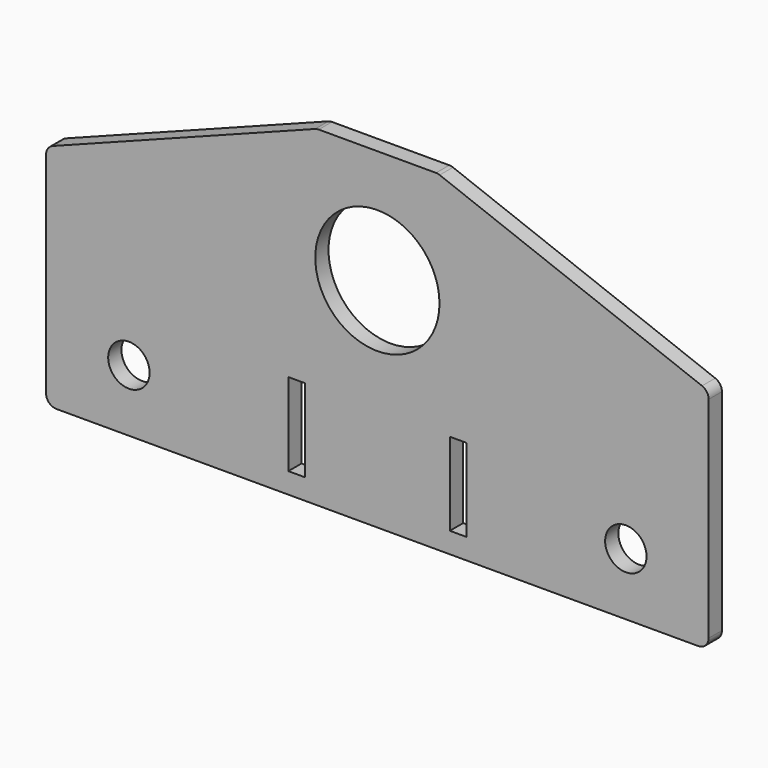
from build123d import *

# Parameters (mm, degrees)
F0_R     = 10
F0_W     = 8
F0_H     = 40
F0_R_2   = 30
F1_DEPTH = 8
F2_R     = 5


with BuildPart() as f1:
    # F0 (on Front) → F1 (new body)
    with BuildSketch(Plane.XZ):
        Polygon((-115.891304, -50), (-115.891304, -160), (204.108696, -160), (204.108696, -50), (73.341727, 0), (14.875664, 0), align=None)
        with Locations((-75.891304, -130)):
            Circle(F0_R, mode=Mode.SUBTRACT)
        with Locations((5.108696, -130)):
            Rectangle(F0_W, F0_H, mode=Mode.SUBTRACT)
        with Locations((83.108696, -130)):
            Rectangle(F0_W, F0_H, mode=Mode.SUBTRACT)
        with Locations((164.108696, -130)):
            Circle(F0_R, mode=Mode.SUBTRACT)
        with Locations((44.108696, -55)):
            Circle(F0_R_2, mode=Mode.SUBTRACT)
    extrude(amount=F1_DEPTH)

    # F2
    f2_edges = [f1.edges().sort_by_distance(p)[0] for p in [
        (-115.891304, -4, -50),
        (14.875664, -4, 0),
        (204.108696, -4, -50),
        (204.108696, -4, -160),
        (-115.891304, -4, -160),
        (73.341727, -4, 0),
    ]]
    fillet(f2_edges, radius=F2_R)


solid = f1.part
